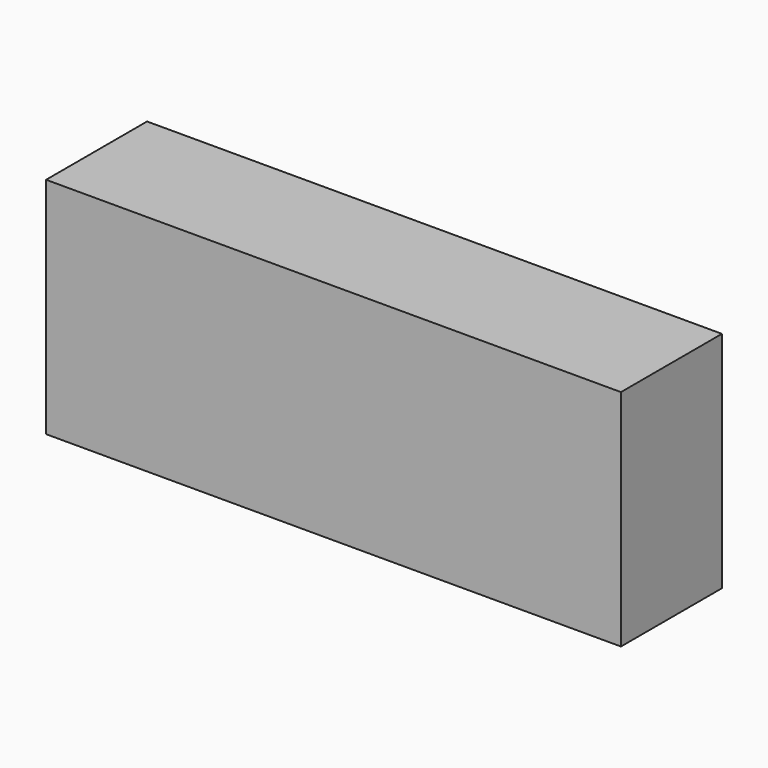
from build123d import *

# Parameters (mm, degrees)
F1_W     = 113.862574
F1_H     = 44.364542
F2_DEPTH = 25


with BuildPart() as f2:
    # F1 (on face) → F2 (new body)
    with BuildSketch(Plane.XZ):
        Rectangle(F1_W, F1_H)
    extrude(amount=-F2_DEPTH)


solid = f2.part
